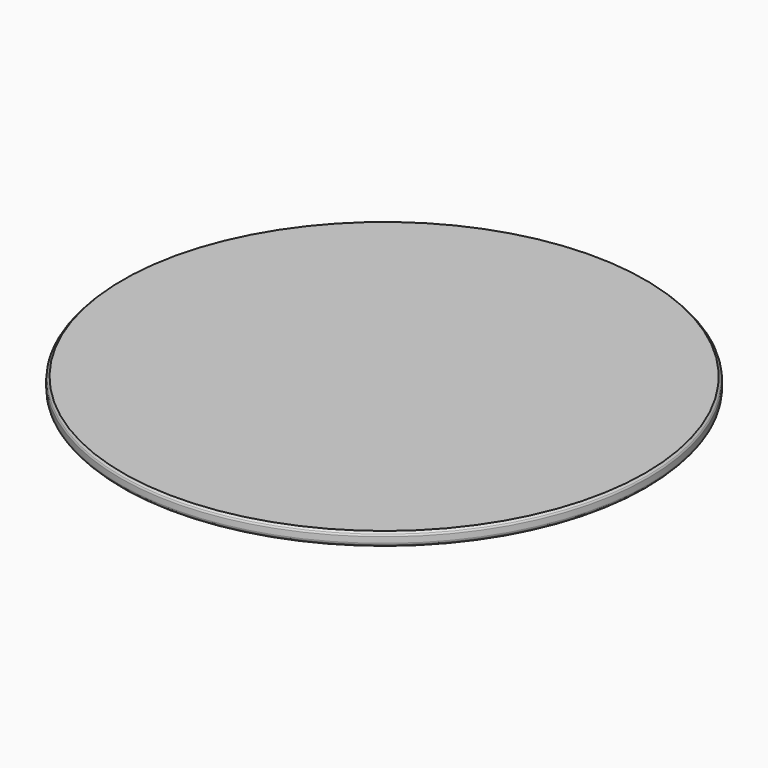
from build123d import *

# Parameters (mm, degrees)
F0_R     = 500
F1_DEPTH = 25
F2_SIZE  = 5
F3_R     = 5


with BuildPart() as f1:
    # F0 (on Top) → F1 (new body)
    with BuildSketch(Plane.XY):
        Circle(F0_R)
    extrude(amount=F1_DEPTH)

    # F2
    f2_edges = [f1.edges().sort_by_distance(p)[0] for p in [
        (-500, 0, 25),
        (-500, 0, 0),
    ]]
    chamfer(f2_edges, length=F2_SIZE)

    # F3
    f3_edges = [f1.edges().sort_by_distance(p)[0] for p in [
        (500, 0, 12.5),
        (-500, 0, 5),
        (-500, 0, 20),
    ]]
    fillet(f3_edges, radius=F3_R)


solid = f1.part
